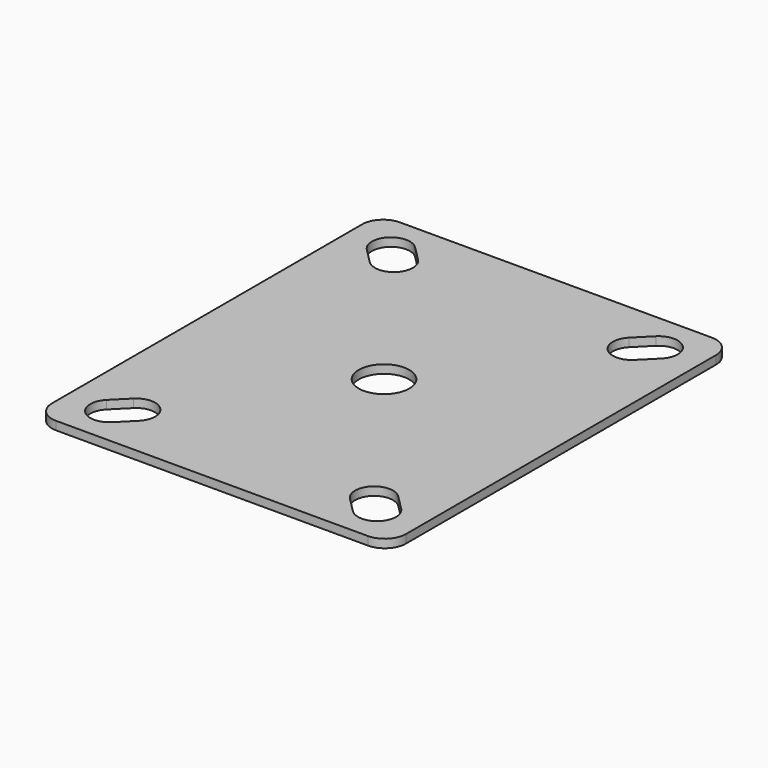
from build123d import *

# Parameters (mm, degrees)
F0_W     = 84
F0_H     = 102
F0_R     = 6
F1_DEPTH = 2
F2_R     = 5


with BuildPart() as f1:
    # F0 (on Top) → F1 (new body)
    with BuildSketch(Plane.XY):
        Rectangle(F0_W, F0_H)
        with BuildLine():
            Line((-25.050253, -41.414214), (-28.585786, -44.949747))
            ThreePointArc((-28.585786, -44.949747), (-34.949747, -44.949747), (-34.949747, -38.585786))
            Line((-34.949747, -38.585786), (-31.414214, -35.050253))
            ThreePointArc((-31.414214, -35.050253), (-25.050253, -35.050253), (-25.050253, -41.414214))
        make_face(mode=Mode.SUBTRACT)
        with BuildLine():
            ThreePointArc((25.050253, -41.414214), (25.050253, -35.050253), (31.414214, -35.050253))
            Line((31.414214, -35.050253), (34.949747, -38.585786))
            ThreePointArc((34.949747, -38.585786), (34.949747, -44.949747), (28.585786, -44.949747))
            Line((28.585786, -44.949747), (25.050253, -41.414214))
        make_face(mode=Mode.SUBTRACT)
        with BuildLine():
            ThreePointArc((-34.949747, 38.585786), (-34.949747, 44.949747), (-28.585786, 44.949747))
            Line((-28.585786, 44.949747), (-25.050253, 41.414214))
            ThreePointArc((-25.050253, 41.414214), (-25.050253, 35.050253), (-31.414214, 35.050253))
            Line((-31.414214, 35.050253), (-34.949747, 38.585786))
        make_face(mode=Mode.SUBTRACT)
        Circle(F0_R, mode=Mode.SUBTRACT)
        with BuildLine():
            Line((25.050253, 41.414214), (28.585786, 44.949747))
            ThreePointArc((28.585786, 44.949747), (34.949747, 44.949747), (34.949747, 38.585786))
            Line((34.949747, 38.585786), (31.414214, 35.050253))
            ThreePointArc((31.414214, 35.050253), (25.050253, 35.050253), (25.050253, 41.414214))
        make_face(mode=Mode.SUBTRACT)
    extrude(amount=F1_DEPTH)

    # F2
    f2_edges = [f1.edges().sort_by_distance(p)[0] for p in [
        (42, -51, 1),
        (42, 51, 1),
        (-42, -51, 1),
        (-42, 51, 1),
    ]]
    fillet(f2_edges, radius=F2_R)


solid = f1.part
